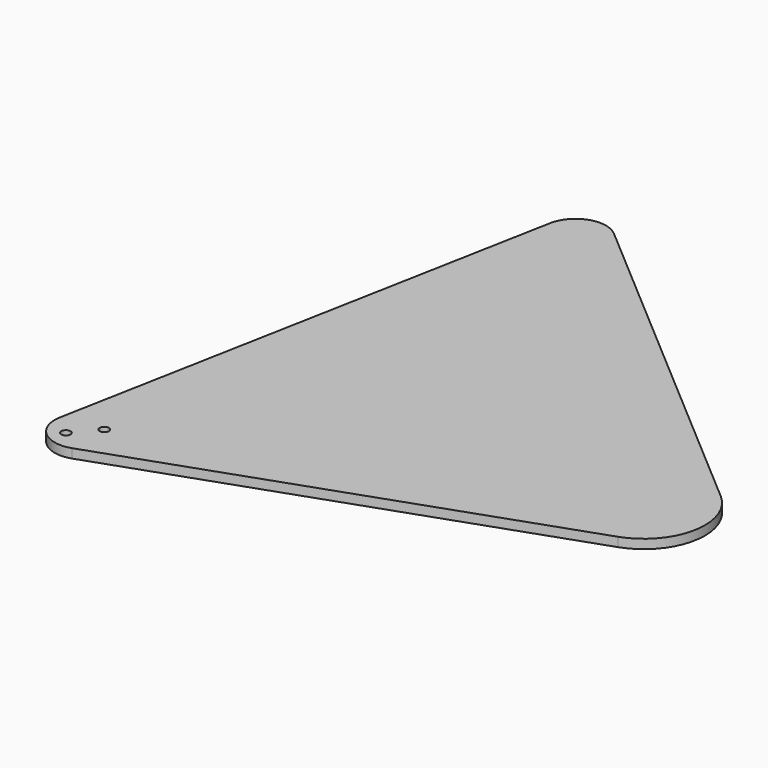
from build123d import *

# Parameters (mm, degrees)
F0_R     = 1.5
F1_DEPTH = 3


with BuildPart() as f1:
    # F0 (on Top) → F1 (new body)
    with BuildSketch(Plane.XY):
        with BuildLine():
            Line((49.548739, -22.790127), (-62.679442, 73.751189))
            ThreePointArc((-62.679442, 73.751189), (-72.505476, 75.608351), (-79.026842, 68.027337))
            Line((-79.026842, 68.027337), (-109.736683, -94.454968))
            ThreePointArc((-109.736683, -94.454968), (-106.432015, -103.893144), (-96.605981, -105.750306))
            Line((-96.605981, -105.750306), (43.115342, -56.828508))
            ThreePointArc((43.115342, -56.828508), (56.158075, -41.666479), (49.548739, -22.790127))
        make_face()
        with Locations((-103.171332, -100.102637)):
            Circle(F0_R, mode=Mode.SUBTRACT)
        with Locations((-96.649965, -92.521622)):
            Circle(F0_R, mode=Mode.SUBTRACT)
    extrude(amount=F1_DEPTH)


solid = f1.part
